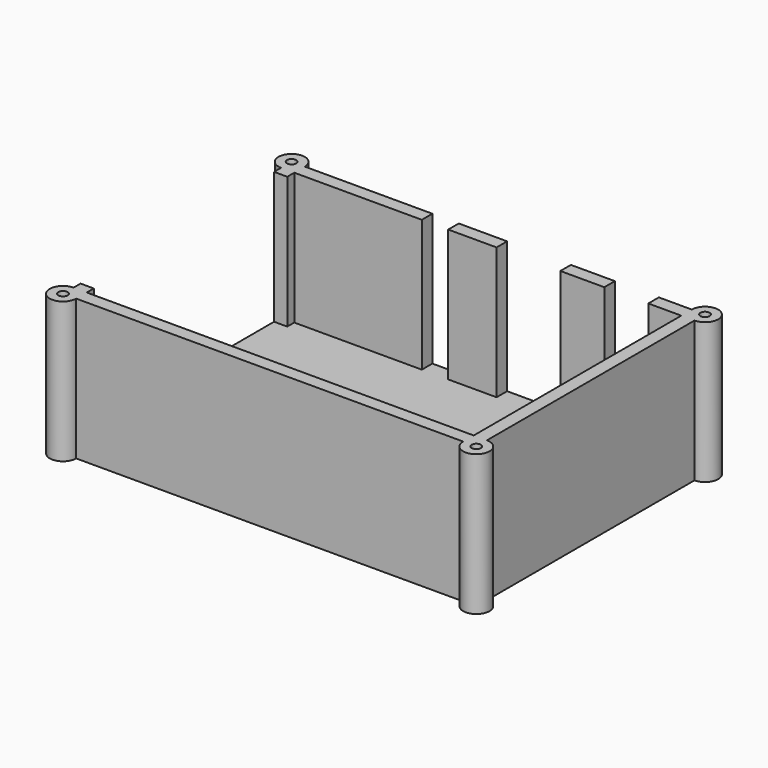
from build123d import *

# Parameters (mm, degrees)
F1_DEPTH = 32
F3_DEPTH = 30
F5_D     = 2.1
F5_DEPTH = 10
F5_TIP   = 0.63090365


with BuildPart() as f1:
    # F0 (on Top) → F1 (new body)
    with BuildSketch(Plane.XY):
        with BuildLine():
            Line((-44, -32.5), (44, -32.5))
            ThreePointArc((44, -32.5), (49.1213203436, -34.6213203436), (47, -29.5))
            Line((47, -29.5), (47, 29.5))
            ThreePointArc((47, 29.5), (49.1213203436, 34.6213203436), (44, 32.5))
            Line((44, 32.5), (-44, 32.5))
            ThreePointArc((-44, 32.5), (-49.1213203436, 34.6213203436), (-47, 29.5))
            Line((-47, 29.5), (-47, -29.5))
            ThreePointArc((-47, -29.5), (-49.1213203436, -34.6213203436), (-44, -32.5))
        make_face()
    extrude(amount=F1_DEPTH)

    # F2 (on face) → F3 (cut)
    with BuildSketch(Plane.XY.offset(32)):
        Polygon((44, -29.5), (44, 29.5), (36.5, 29.5), (36.5, 32.5), (26.5, 32.5), (26.5, 29.5), (16.5, 29.5), (16.5, 32.5), (2, 32.5), (2, 29.5), (-9, 29.5), (-9, 32.5), (-15, 32.5), (-15, 29.5), (-44, 29.5), (-44, 27.5), (-47, 27.5), (-47, -27.5), (-44, -27.5), (-44, -29.5), align=None)
    extrude(amount=-F3_DEPTH, mode=Mode.SUBTRACT)

    # F5
    with Locations(Plane.XY.offset(32)):
        with Locations((-47, 32.5), (47, 32.5), (47, -32.5), (-47, -32.5)):
            Hole(F5_D / 2, depth=F5_DEPTH)
            with Locations((0, 0, -(F5_DEPTH + F5_TIP / 2))):  # 118° drill point
                Cone(0, F5_D / 2, F5_TIP, mode=Mode.SUBTRACT)


solid = f1.part
